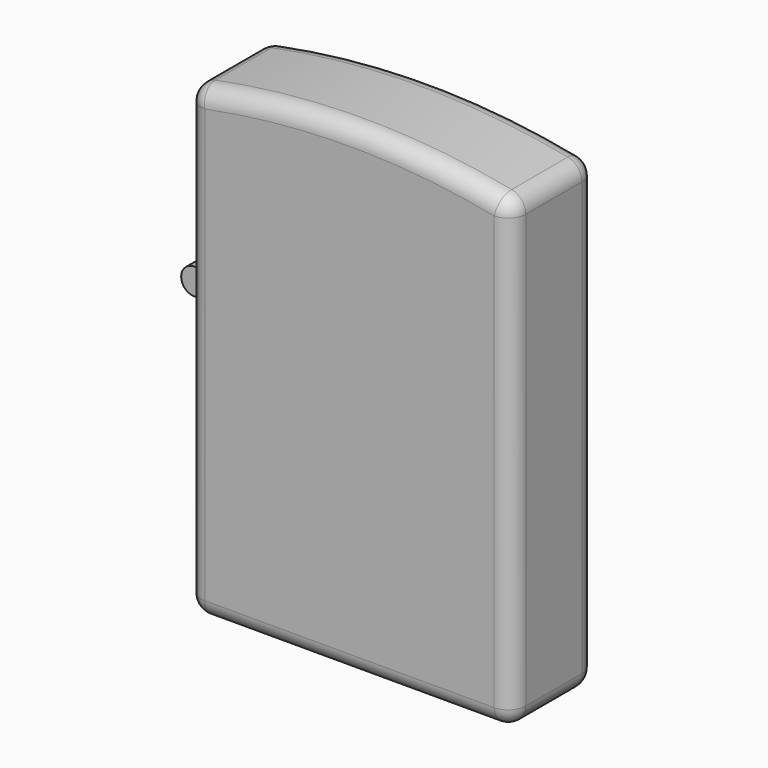
from build123d import *

# Parameters (mm, degrees)
F0_W     = 37
F0_H     = 53
F1_DEPTH = 12
F2_R     = 2
F4_R     = 1.5
F5_DEPTH = 5


with BuildPart() as f1:
    # F0 (on Front) → F1 (new body)
    with BuildSketch(Plane.XZ):
        with Locations((18.5, 26.5)):
            Rectangle(F0_W, F0_H)
        with BuildLine():
            ThreePointArc((37, 53), (18.5, 55), (0, 53))
            Line((0, 53), (37, 53))
        make_face()
    extrude(amount=F1_DEPTH)

    # F2
    f2_edges = [f1.edges().sort_by_distance(p)[0] for p in [
        (37, -6, 53),
        (18.5, -12, 55),
        (0, -6, 53),
        (18.5, 0, 55),
        (37, -12, 26.5),
        (37, 0, 26.5),
        (37, -6, 0),
        (18.5, -12, 0),
        (0, -12, 26.5),
        (0, 0, 26.5),
        (18.5, 0, 0),
        (0, -6, 0),
    ]]
    fillet(f2_edges, radius=F2_R)

    # F4 (on offset) → F5 (join, symmetric)
    with BuildSketch(Plane.XZ.offset(6)):
        with Locations((0, 33)):
            Circle(F4_R)
    extrude(amount=F5_DEPTH, both=True)


solid = f1.part
